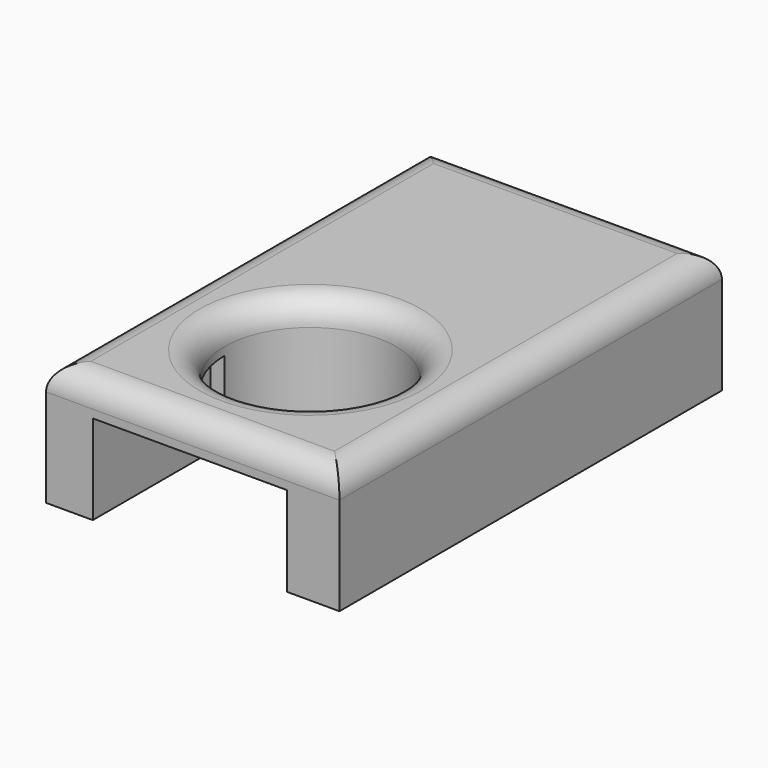
from build123d import *

# Parameters (mm, degrees)
F1_W     = 59.7976446152
F1_H     = 97.4377058446
F1_R     = 17.5
F2_DEPTH = 25
F3_W     = 39.5896174014
F3_H     = 18.2575397193
F4_DEPTH = 29.972
F5_R     = 5.08


with BuildPart() as f2:
    # F1 (on face) → F2 (new body)
    with BuildSketch(Plane.XY):
        with Locations((0, 18.7598057091)):
            Rectangle(F1_W, F1_H)
        Circle(F1_R, mode=Mode.SUBTRACT)
    extrude(amount=F2_DEPTH)

    # F3 (on face) → F4 (cut)
    with BuildSketch(Plane.XZ.offset(29.9590472132)):
        with Locations((-0.5845595151, 9.1287698597)):
            Rectangle(F3_W, F3_H)
    extrude(amount=-F4_DEPTH, mode=Mode.SUBTRACT)

    # F5
    f5_edges = [f2.edges().sort_by_distance(p)[0] for p in [
        (0, -29.959047, 25),
        (29.898822, 18.759806, 25),
        (0, 67.478659, 25),
        (-29.898822, 18.759806, 25),
        (-17.5, 0, 25),
    ]]
    fillet(f5_edges, radius=F5_R)


solid = f2.part
